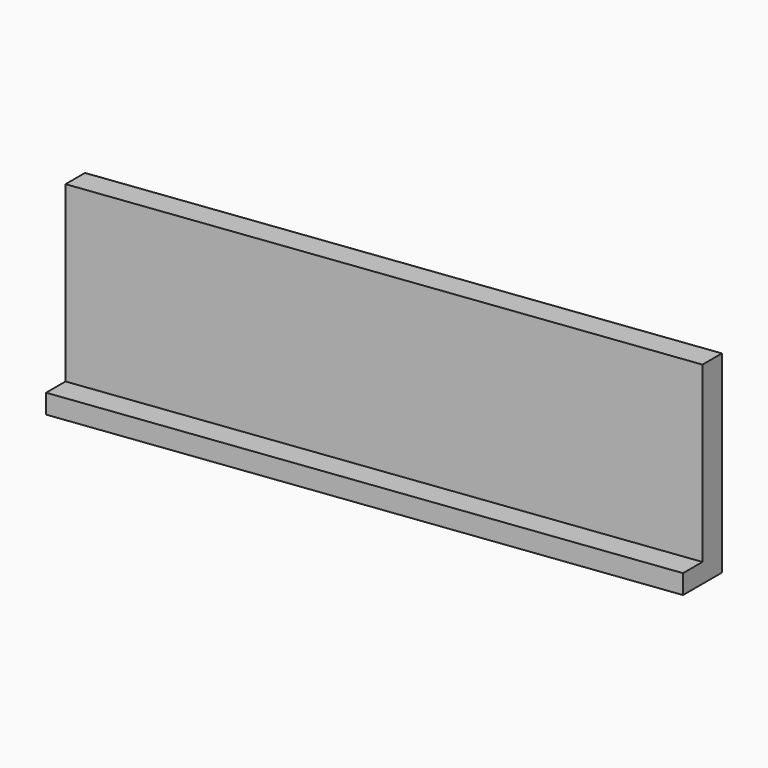
from build123d import *

# Parameters (mm, degrees)
F1_DEPTH = 40
F3_DEPTH = 4


with BuildPart() as f1:
    # F0 (on Top) → F1 (new body)
    with BuildSketch(Plane.XY):
        Polygon((120, 9.961089), (120, 15), (0, 0), (0, -5.038911), align=None)
    extrude(amount=F1_DEPTH)

    # F2 (on face) → F3 (join)
    with BuildSketch(Plane(origin=(0, 0, 0), x_dir=(1, 0, 0), z_dir=(0, 0, -1))):
        Polygon((0, 10.077822), (0, 5.038911), (120, -9.961089), (120, -4.922178), align=None)
    extrude(amount=-F3_DEPTH)


solid = f1.part
